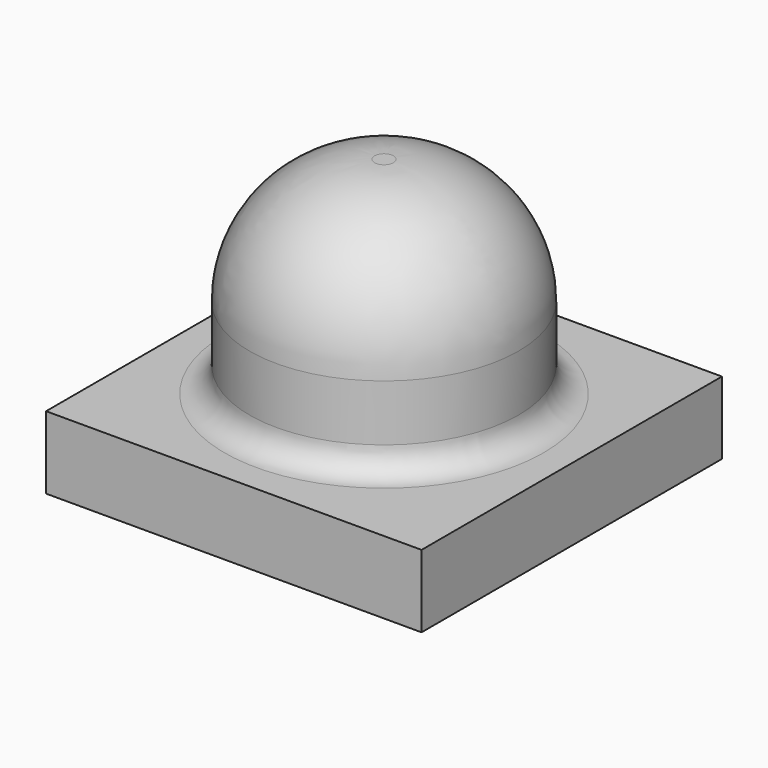
from build123d import *

# Parameters (mm, degrees)
F0_W     = 3
F0_H     = 3
F1_DEPTH = 0.58
F4_W     = 1
F4_H     = 2.7
F4_W_2   = 0.5
F5_DEPTH = 0.1
F6_DEPTH = 0.1


with BuildPart() as f1:
    # F0 (on Top) → F1 (new body)
    with BuildSketch(Plane.XY):
        Rectangle(F0_W, F0_H)
    extrude(amount=F1_DEPTH)

    # F4 (on face) → F5 (cut)
    with BuildSketch(Plane(origin=(0, 0, 0), x_dir=(1, 0, 0), z_dir=(0, 0, -1))):
        Rectangle(F4_W, F4_H)
        with Locations((1.088346, 0)):
            Rectangle(F4_W_2, F4_H)
        with Locations((-1.111654, 0)):
            Rectangle(F4_W_2, F4_H)
    extrude(amount=-F5_DEPTH, mode=Mode.SUBTRACT)


with BuildPart() as f3:
    # F2 (on Front) → F3 (revolve)
    with BuildSketch(Plane.XZ):
        with BuildLine():
            ThreePointArc((1.275, 0.58), (1.133579, 0.638579), (1.075, 0.78))
            Line((1.075, 0.78), (1.075, 1.23))
            ThreePointArc((1.075, 1.23), (0.782107, 1.937107), (0.075, 2.23))
            Line((0.075, 2.23), (0, 2.23))
            Line((0, 2.23), (0, 0.58))
            Line((0, 0.58), (1.275, 0.58))
        make_face()
    revolve(axis=Axis((0, 0, 1.405), (0, 0, 1)))


with BuildPart() as f6:
    # F4 (on face) → F6 (new body)
    with BuildSketch(Plane(origin=(0, 0, 0), x_dir=(1, 0, 0), z_dir=(0, 0, -1))):
        Rectangle(F4_W, F4_H)
        with Locations((1.088346, 0)):
            Rectangle(F4_W_2, F4_H)
        with Locations((-1.111654, 0)):
            Rectangle(F4_W_2, F4_H)
    extrude(amount=-F6_DEPTH)


solid = Compound([f1.part, f3.part, f6.part])
